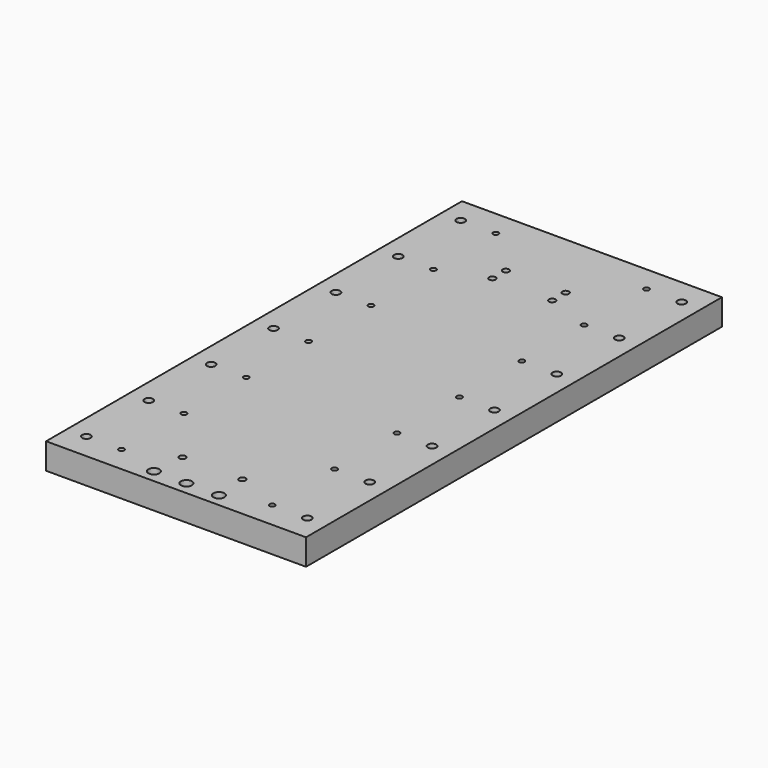
from build123d import *

# Parameters (mm, degrees)
SKETCH_W        = 200
SKETCH_H        = 400
PAD_DEPTH       = 20
SKETCH001_R     = 2.1
POCKET_DEPTH    = 20
SKETCH002_R     = 3.25
POCKET001_DEPTH = 20
SKETCH003_R     = 5.2
POCKET002_DEPTH = 7
SKETCH004_R     = 2.5
POCKET003_DEPTH = 20
SKETCH005_R     = 2.5
POCKET004_DEPTH = 20
SKETCH006_R     = 4.25
POCKET005_DEPTH = 20
SKETCH007_R     = 7.5
POCKET006_DEPTH = 9


with BuildPart() as part:
    # Sketch → Pad (new body)
    with BuildSketch(Plane.XY):
        with Locations((100, 200)):
            Rectangle(SKETCH_W, SKETCH_H)
    extrude(amount=PAD_DEPTH)

    # Sketch001 (on Face6 of Pad) → Pocket (cut)
    with BuildSketch(Plane.XY.offset(20)):
        with Locations((42, 380)):
            Circle(SKETCH001_R)
        with Locations((42, 320)):
            Circle(SKETCH001_R)
        with Locations((42, 260)):
            Circle(SKETCH001_R)
        with Locations((42, 200)):
            Circle(SKETCH001_R)
        with Locations((42, 140)):
            Circle(SKETCH001_R)
        with Locations((42, 80)):
            Circle(SKETCH001_R)
        with Locations((42, 20)):
            Circle(SKETCH001_R)
        with Locations((158, 380)):
            Circle(SKETCH001_R)
        with Locations((158, 320)):
            Circle(SKETCH001_R)
        with Locations((158, 260)):
            Circle(SKETCH001_R)
        with Locations((158, 200)):
            Circle(SKETCH001_R)
        with Locations((158, 140)):
            Circle(SKETCH001_R)
        with Locations((158, 80)):
            Circle(SKETCH001_R)
        with Locations((158, 20)):
            Circle(SKETCH001_R)
    extrude(amount=-POCKET_DEPTH, mode=Mode.SUBTRACT)

    # Sketch002 (on Face5 of Pocket) → Pocket001 (cut)
    with BuildSketch(Plane.XY.offset(20)):
        with Locations((15, 380)):
            Circle(SKETCH002_R)
        with Locations((15, 320)):
            Circle(SKETCH002_R)
        with Locations((15, 260)):
            Circle(SKETCH002_R)
        with Locations((15, 200)):
            Circle(SKETCH002_R)
        with Locations((15, 140)):
            Circle(SKETCH002_R)
        with Locations((15, 80)):
            Circle(SKETCH002_R)
        with Locations((15, 20)):
            Circle(SKETCH002_R)
        with Locations((185, 380)):
            Circle(SKETCH002_R)
        with Locations((185, 320)):
            Circle(SKETCH002_R)
        with Locations((185, 260)):
            Circle(SKETCH002_R)
        with Locations((185, 200)):
            Circle(SKETCH002_R)
        with Locations((185, 140)):
            Circle(SKETCH002_R)
        with Locations((185, 80)):
            Circle(SKETCH002_R)
        with Locations((185, 20)):
            Circle(SKETCH002_R)
    extrude(amount=-POCKET001_DEPTH, mode=Mode.SUBTRACT)

    # Sketch003 (on Face4 of Pocket001) → Pocket002 (cut)
    with BuildSketch(Plane(origin=(0, 0, 0), x_dir=(1, 0, 0), z_dir=(0, 0, -1))):
        with Locations((15, -20)):
            Circle(SKETCH003_R)
        with Locations((15, -80)):
            Circle(SKETCH003_R)
        with Locations((15, -140)):
            Circle(SKETCH003_R)
        with Locations((15, -200)):
            Circle(SKETCH003_R)
        with Locations((15, -260)):
            Circle(SKETCH003_R)
        with Locations((15, -320)):
            Circle(SKETCH003_R)
        with Locations((185, -20)):
            Circle(SKETCH003_R)
        with Locations((185, -80)):
            Circle(SKETCH003_R)
        with Locations((185, -140)):
            Circle(SKETCH003_R)
        with Locations((185, -200)):
            Circle(SKETCH003_R)
        with Locations((185, -260)):
            Circle(SKETCH003_R)
        with Locations((185, -320)):
            Circle(SKETCH003_R)
        with Locations((185, -380)):
            Circle(SKETCH003_R)
        with Locations((15, -380)):
            Circle(SKETCH003_R)
    extrude(amount=-POCKET002_DEPTH, mode=Mode.SUBTRACT)

    # Sketch004 (on Face5 of Pocket002) → Pocket003 (cut)
    with BuildSketch(Plane.XY.offset(20)):
        with Locations((77, 346)):
            Circle(SKETCH004_R)
        with Locations((123, 346)):
            Circle(SKETCH004_R)
        with Locations((77, 333)):
            Circle(SKETCH004_R)
        with Locations((123, 333)):
            Circle(SKETCH004_R)
        with Locations((77, 35)):
            Circle(SKETCH004_R)
        with Locations((123, 35)):
            Circle(SKETCH004_R)
    extrude(amount=-POCKET003_DEPTH, mode=Mode.SUBTRACT)

    # Sketch005 (on Face1 of Pocket003) → Pocket004 (cut)
    with BuildSketch(Plane(origin=(0, 400, 0), x_dir=(-1, 0, 0), z_dir=(0, 1, 0))):
        with Locations((-170, 10)):
            Circle(SKETCH005_R)
        with Locations((-123.33, 10)):
            Circle(SKETCH005_R)
        with Locations((-76.67, 10)):
            Circle(SKETCH005_R)
        with Locations((-30, 10)):
            Circle(SKETCH005_R)
    extrude(amount=-POCKET004_DEPTH, mode=Mode.SUBTRACT)

    # Sketch006 (on Face4 of Pocket004) → Pocket005 (cut)
    with BuildSketch(Plane.XY.offset(20)):
        with Locations((75, 10)):
            Circle(SKETCH006_R)
        with Locations((100, 10)):
            Circle(SKETCH006_R)
        with Locations((125, 10)):
            Circle(SKETCH006_R)
    extrude(amount=-POCKET005_DEPTH, mode=Mode.SUBTRACT)

    # Sketch007 (on Face3 of Pocket005) → Pocket006 (cut)
    with BuildSketch(Plane(origin=(0, 0, 0), x_dir=(1, 0, 0), z_dir=(0, 0, -1))):
        with Locations((75, -10)):
            Circle(SKETCH007_R)
        with Locations((100, -10)):
            Circle(SKETCH007_R)
        with Locations((125, -10)):
            Circle(SKETCH007_R)
    extrude(amount=-POCKET006_DEPTH, mode=Mode.SUBTRACT)


solid = part.part
